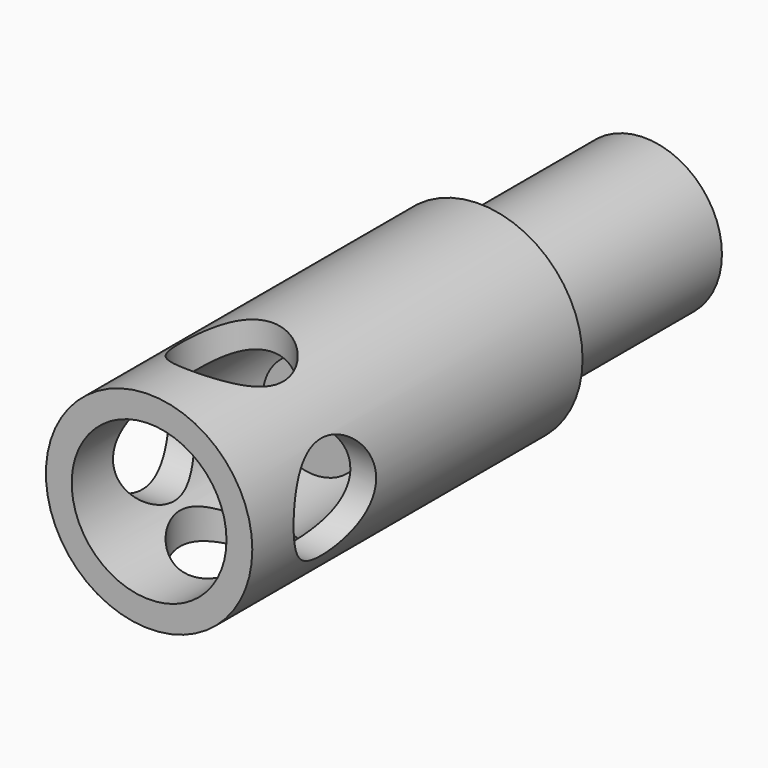
from build123d import *

# Parameters (mm, degrees)
F0_R          = 12.7
F0_R_2        = 9.525
F1_DEPTH      = 50.8
F2_R          = 6.35
F3_DEPTH      = 12.701
F3_DEPTH_BACK = 12.701
F4_R          = 6.35
F5_DEPTH      = 12.701
F5_DEPTH_BACK = 12.701
F0_R_3        = 6.35
F6_DEPTH      = 25.4
F7_DEPTH      = 25.4


with BuildPart() as f1:
    # F0 (on Front) → F1 (new body)
    with BuildSketch(Plane.XZ):
        Circle(F0_R)
        Circle(F0_R_2, mode=Mode.SUBTRACT)
    extrude(amount=F1_DEPTH)

    # F2 (on Right) → F3 (cut, two sides)
    with BuildSketch(Plane.YZ) as f3_sk:
        with Locations((-38.1, 0)):
            Circle(F2_R)
    extrude(amount=F3_DEPTH, mode=Mode.SUBTRACT)
    extrude(f3_sk.sketch, amount=-F3_DEPTH_BACK, mode=Mode.SUBTRACT)

    # F4 (on Top) → F5 (cut, two sides)
    with BuildSketch(Plane.XY) as f5_sk:
        with Locations((0, -38.1)):
            Circle(F4_R)
    extrude(amount=F5_DEPTH, mode=Mode.SUBTRACT)
    extrude(f5_sk.sketch, amount=-F5_DEPTH_BACK, mode=Mode.SUBTRACT)


with BuildPart() as f6:
    # F0 (on Front) → F6 (new body)
    with BuildSketch(Plane.XZ):
        Circle(F0_R_2)
        Circle(F0_R_3, mode=Mode.SUBTRACT)
        Circle(F0_R_3)
    extrude(amount=-F6_DEPTH)

    # F0 (on Front) → F7 (join)
    with BuildSketch(Plane.XZ):
        Circle(F0_R_3)
    extrude(amount=F7_DEPTH)


solid = Compound([f1.part, f6.part])
